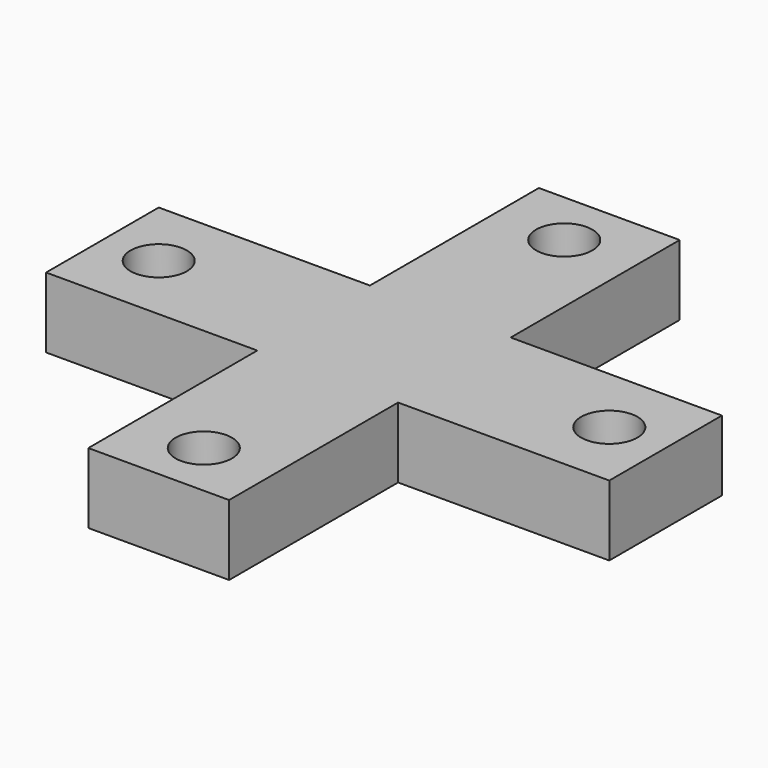
from build123d import *

# Parameters (mm, degrees)
PAD_DEPTH    = 10
SKETCH001_R  = 4
POCKET_DEPTH = 10.001


with BuildPart() as part:
    # Sketch → Pad (new body)
    with BuildSketch(Plane.XY):
        Polygon((-10, 40), (10, 40), (10, 10), (40, 10), (40, -10), (10, -10), (10, -40), (-10, -40), (-10, -10), (-40, -10), (-40, 10), (-10, 10), align=None)
    extrude(amount=PAD_DEPTH)

    # Sketch001 → Pocket (cut, through all)
    with BuildSketch(Plane.XY.offset(10)):
        with Locations((0, 32)):
            Circle(SKETCH001_R)
        with Locations((-32, 0)):
            Circle(SKETCH001_R)
        with Locations((0, -32)):
            Circle(SKETCH001_R)
        with Locations((32, 0)):
            Circle(SKETCH001_R)
    extrude(amount=-POCKET_DEPTH, mode=Mode.SUBTRACT)


solid = part.part
